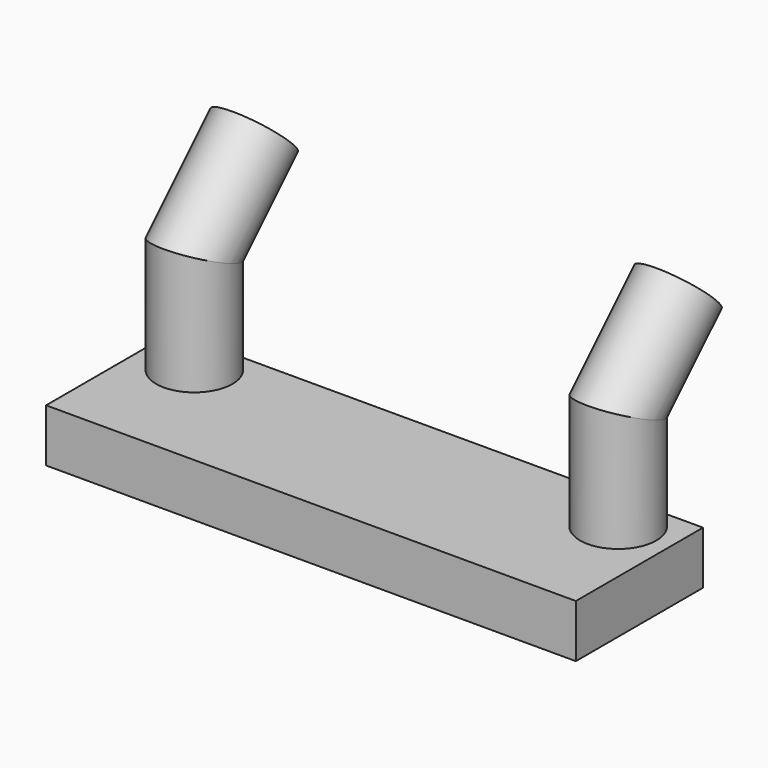
from build123d import *

# Parameters (mm, degrees)
F0_W     = 31.75
F0_H     = 9.525
F1_DEPTH = 3.175
F4_R     = 2.286
F8_R     = 2.286


with BuildPart() as f1:
    # F0 (on Top) → F1 (new body)
    with BuildSketch(Plane.XY):
        with Locations((15.875, 4.7625)):
            Rectangle(F0_W, F0_H)
    extrude(amount=F1_DEPTH)

    # F5: sweep along a path in F3
    with BuildLine(Plane.YZ.offset(28.575)) as f5_path:
        Line((7.1374, 3.175), (7.1374, 9.525))
        Line((7.1374, 9.525), (11.6275280605, 14.0151280605))
    # F4 (on face) → F5 (sweep)
    with BuildSketch(Plane.XY.offset(3.175)):
        with Locations((28.575, 7.1374)):
            Circle(F4_R)
    sweep(path=f5_path.line, transition=Transition.RIGHT)

    # F9: sweep along a path in F7
    with BuildLine(Plane.YZ.offset(3.175)) as f9_path:
        Line((7.1374, 3.175), (7.1374, 9.525))
        Line((7.1374, 9.525), (11.6275280605, 14.0151280605))
    # F8 (on face) → F9 (sweep)
    with BuildSketch(Plane.XY.offset(3.175)):
        with Locations((3.175, 7.1374)):
            Circle(F8_R)
    sweep(path=f9_path.line, transition=Transition.RIGHT)


solid = f1.part
